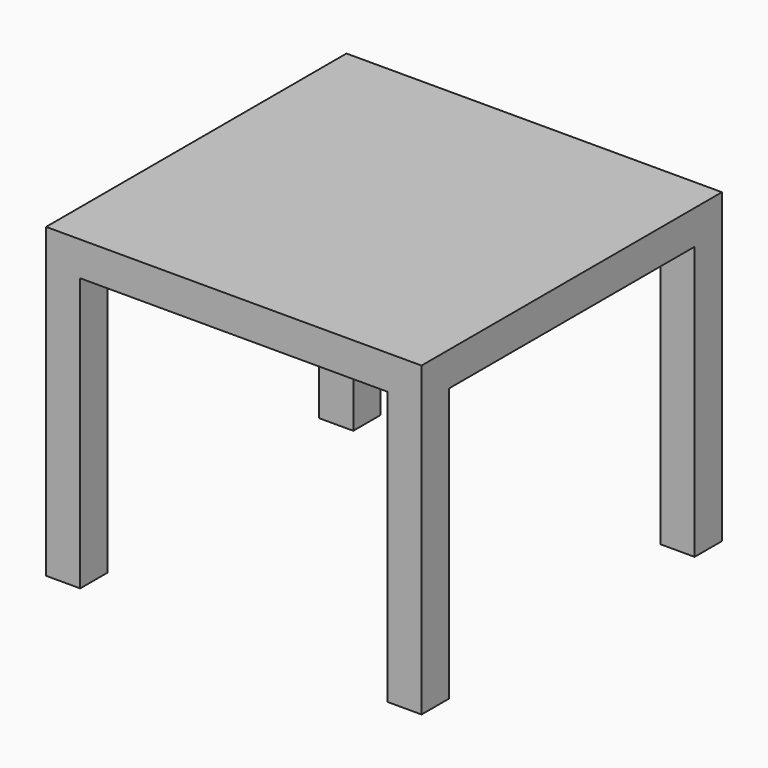
from build123d import *

# Parameters (mm, degrees)
F0_W     = 550
F0_H     = 550
F1_DEPTH = 50
F2_W     = 50
F2_H     = 50
F3_DEPTH = 400


with BuildPart() as f1:
    # F0 (on Top) → F1 (new body)
    with BuildSketch(Plane.XY):
        with Locations((275, 275)):
            Rectangle(F0_W, F0_H)
    extrude(amount=-F1_DEPTH)

    # F2 (on face) → F3 (join)
    with BuildSketch(Plane(origin=(0, 0, -50), x_dir=(1, 0, 0), z_dir=(0, 0, -1))):
        with Locations((525, -25)):
            Rectangle(F2_W, F2_H)
        with Locations((525, -525)):
            Rectangle(F2_W, F2_H)
        with Locations((25, -525)):
            Rectangle(F2_W, F2_H)
        with Locations((25, -25)):
            Rectangle(F2_W, F2_H)
    extrude(amount=F3_DEPTH)


solid = f1.part
